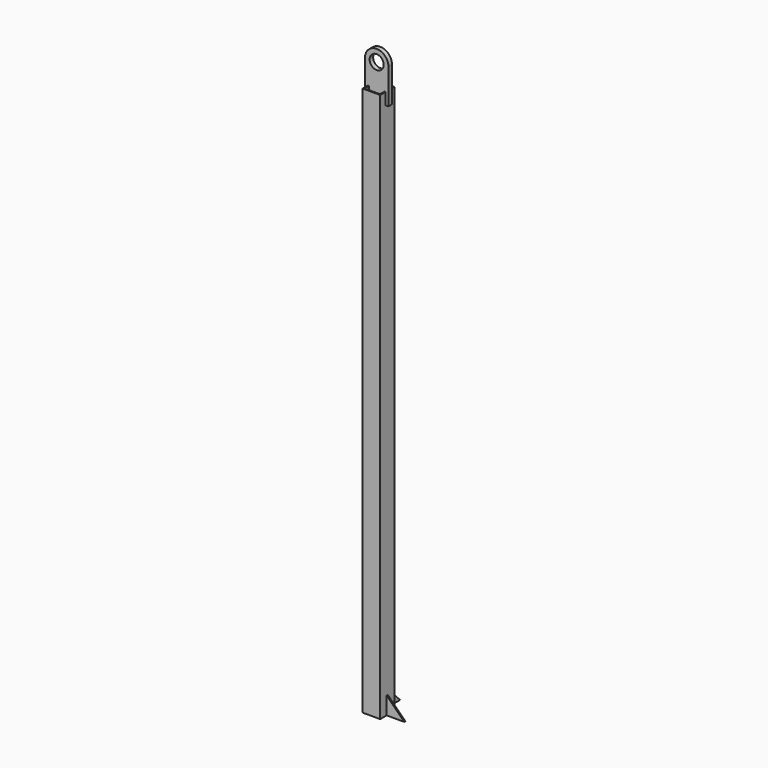
from build123d import *

# Parameters (mm, degrees)
F0_W     = 75
F0_H     = 75
F0_W_2   = 66
F0_H_2   = 66
F1_DEPTH = 2344
F2_R     = 30
F3_DEPTH = 9.5
F5_DEPTH = 3
F7_DEPTH = 3


with BuildPart() as f1:
    # F0 (on Top) → F1 (new body)
    with BuildSketch(Plane.XY):
        Rectangle(F0_W, F0_H)
        Rectangle(F0_W_2, F0_H_2, mode=Mode.SUBTRACT)
    extrude(amount=F1_DEPTH)

    # F2 (on Front) → F3 (join, symmetric)
    with BuildSketch(Plane.XZ):
        with BuildLine():
            Line((-50, 2444), (-50, 2294))
            Line((-50, 2294), (50, 2294))
            Line((50, 2294), (50, 2444))
            ThreePointArc((50, 2444), (0, 2494), (-50, 2444))
        make_face()
        with Locations((0, 2444)):
            Circle(F2_R, mode=Mode.SUBTRACT)
    extrude(amount=F3_DEPTH, both=True)

    # F4 (on Front) → F5 (join, symmetric)
    with BuildSketch(Plane.XZ):
        Polygon((37.5, 75), (37.5, 0), (112.5, 0), align=None)
    extrude(amount=F5_DEPTH, both=True)

    # F6 (on Right) → F7 (join, symmetric)
    with BuildSketch(Plane.YZ):
        Polygon((37.5, 75), (37.5, 0), (112.5, 0), align=None)
    extrude(amount=F7_DEPTH, both=True)


solid = f1.part
